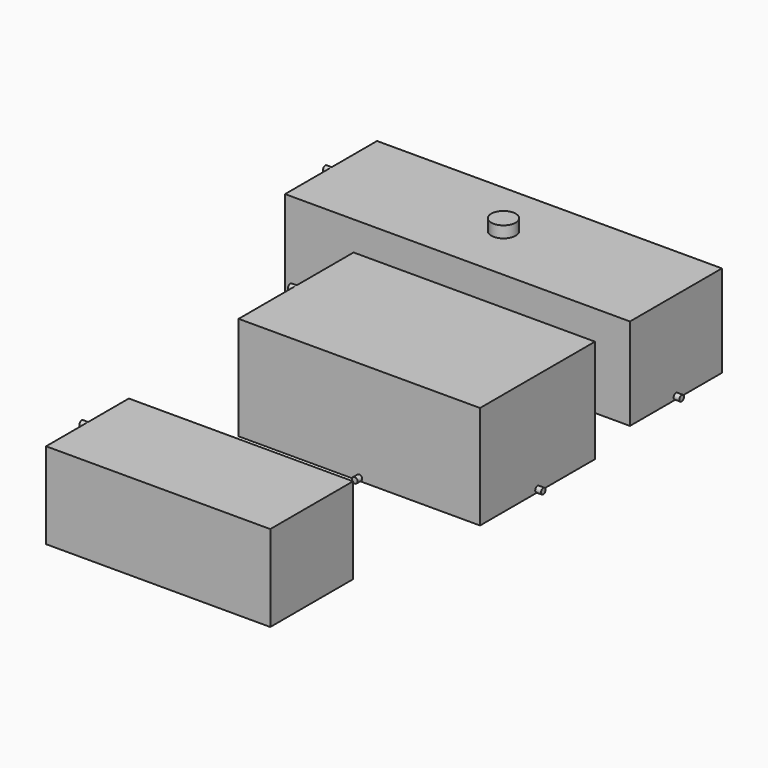
from build123d import *

# Parameters (mm, degrees)
F0_W      = 762
F0_H      = 254
F1_DEPTH  = 203.2
F2_R      = 6.35
F3_DEPTH  = 12.7
F4_R      = 6.35
F5_DEPTH  = 12.7
F6_W      = 533.4
F6_H      = 317.5
F7_DEPTH  = 228.6
F8_R      = 6.35
F9_DEPTH  = 12.7
F10_R     = 6.35
F11_DEPTH = 12.7
F12_R     = 6.35
F13_DEPTH = 12.7
F14_W     = 495.3
F14_H     = 228.6
F15_DEPTH = 190.5
F16_R     = 6.35
F17_DEPTH = 12.7
F18_R     = 6.35
F19_DEPTH = 12.7
F20_R     = 26.9875
F21_DEPTH = 25.4


with BuildPart() as f1:
    # F0 (on Top) → F1 (new body)
    with BuildSketch(Plane.XY):
        with Locations((-381, -127)):
            Rectangle(F0_W, F0_H)
    extrude(amount=-F1_DEPTH)

    # F2 (on face) → F3 (join)
    with BuildSketch(Plane(origin=(-762, 0, 0), x_dir=(0, -1, 0), z_dir=(-1, 0, 0))):
        with Locations((127, -6.35)):
            Circle(F2_R)
    extrude(amount=F3_DEPTH)

    # F4 (on face) → F5 (join)
    with BuildSketch(Plane.YZ):
        with Locations((-127, -196.85)):
            Circle(F4_R)
    extrude(amount=F5_DEPTH)

    # F20 (on face) → F21 (join)
    with BuildSketch(Plane.XY):
        with Locations((-381, -127)):
            Circle(F20_R)
    extrude(amount=F21_DEPTH)


with BuildPart() as f7:
    # F6 (on Top) → F7 (new body)
    with BuildSketch(Plane.XY):
        with Locations((-266.7, -509.291289)):
            Rectangle(F6_W, F6_H)
    extrude(amount=-F7_DEPTH)

    # F8 (on face) → F9 (join)
    with BuildSketch(Plane(origin=(-533.4, 0, 0), x_dir=(0, -1, 0), z_dir=(-1, 0, 0))):
        with Locations((509.291289, -6.35)):
            Circle(F8_R)
    extrude(amount=F9_DEPTH)

    # F10 (on face) → F11 (join)
    with BuildSketch(Plane.YZ):
        with Locations((-509.291289, -222.25)):
            Circle(F10_R)
    extrude(amount=F11_DEPTH)

    # F12 (on face) → F13 (join)
    with BuildSketch(Plane.XZ.offset(668.041289)):
        with Locations((-266.7, -222.25)):
            Circle(F12_R)
    extrude(amount=F13_DEPTH)


with BuildPart() as f15:
    # F14 (on Top) → F15 (new body)
    with BuildSketch(Plane.XY):
        with Locations((-247.65, -1133.070839)):
            Rectangle(F14_W, F14_H)
    extrude(amount=-F15_DEPTH)

    # F16 (on face) → F17 (join)
    with BuildSketch(Plane(origin=(-495.3, 0, 0), x_dir=(0, -1, 0), z_dir=(-1, 0, 0))):
        with Locations((1133.070839, -6.35)):
            Circle(F16_R)
    extrude(amount=F17_DEPTH)

    # F18 (on face) → F19 (join)
    with BuildSketch(Plane(origin=(0, -1018.770839, 0), x_dir=(-1, 0, 0), z_dir=(0, 1, 0))):
        with Locations((247.65, -184.15)):
            Circle(F18_R)
    extrude(amount=F19_DEPTH)


solid = Compound([f1.part, f7.part, f15.part])
